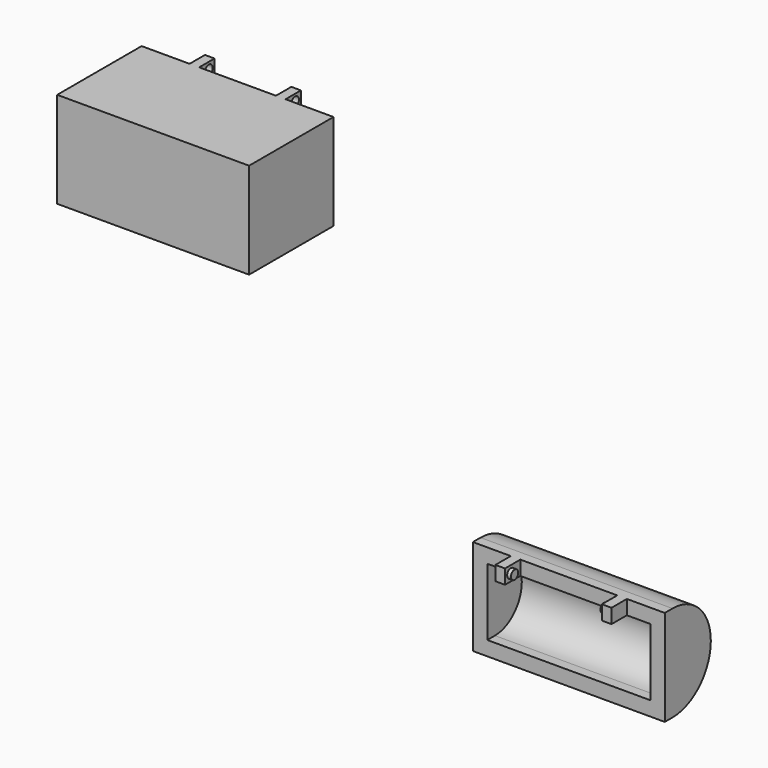
from build123d import *

# Parameters (mm, degrees)
F0_W      = 20
F0_H      = 10
F1_DEPTH  = 1
F2_W      = 20
F2_H      = 10
F2_W_2    = 17
F2_H_2    = 7
F3_DEPTH  = 10
F4_W      = 1
F4_H      = 1.5
F5_DEPTH  = 2
F6_R      = 0.5
F7_DEPTH  = 25
F9_DEPTH  = 20
F12_DEPTH = 17
F13_W     = 1
F13_H     = 1.5
F14_DEPTH = 2
F15_R     = 0.45
F16_DEPTH = 0.4
F17_R     = 0.475
F18_DEPTH = 0.4


with BuildPart() as f1:
    # F0 (on Front) → F1 (new body)
    with BuildSketch(Plane.XZ):
        with Locations((-30.8312657289, 3.0536208428)):
            Rectangle(F0_W, F0_H)
    extrude(amount=-F1_DEPTH)

    # F2 (on face) → F3 (join)
    with BuildSketch(Plane(origin=(0, 1, 0), x_dir=(-1, 0, 0), z_dir=(0, 1, 0))):
        with Locations((30.8312657289, 3.0536208428)):
            Rectangle(F2_W, F2_H)
        with Locations((30.8312657289, 3.0536208428)):
            Rectangle(F2_W_2, F2_H_2, mode=Mode.SUBTRACT)
    extrude(amount=F3_DEPTH)

    # F4 (on face) → F5 (join)
    with BuildSketch(Plane(origin=(0, 11, 0), x_dir=(-1, 0, 0), z_dir=(0, 1, 0))):
        with Locations((26.3312657289, 7.3036208428)):
            Rectangle(F4_W, F4_H)
        with Locations((35.3312657289, 7.3036208428)):
            Rectangle(F4_W, F4_H)
    extrude(amount=F5_DEPTH)

    # F6 (on face) → F7 (cut)
    with BuildSketch(Plane(origin=(-35.8312657289, 0, 0), x_dir=(0, -1, 0), z_dir=(-1, 0, 0))):
        with Locations((-12.25, 7.3036208428)):
            Circle(F6_R)
    extrude(amount=-F7_DEPTH, mode=Mode.SUBTRACT)


with BuildPart() as f9:
    # F8 (on Right) → F9 (new body)
    with BuildSketch(Plane.YZ):
        with BuildLine():
            Line((3.1154813953, -30.9684574604), (4.1154813953, -30.9684574604))
            ThreePointArc((4.1154813953, -30.9684574604), (9.1154813953, -25.9684574604), (4.1154813953, -20.9684574604))
            Line((4.1154813953, -20.9684574604), (3.1154813953, -20.9684574604))
            Line((3.1154813953, -20.9684574604), (3.1154813953, -30.9684574604))
        make_face()
    extrude(amount=F9_DEPTH)

    # F11 (on offset) → F12 (cut)
    with BuildSketch(Plane(origin=(1.5, 0, 0), x_dir=(0, -1, 0), z_dir=(-1, 0, 0))):
        with BuildLine():
            Line((-3.1154813953, -29.4684574604), (-3.1154813953, -22.4684574604))
            Line((-3.1154813953, -22.4684574604), (-4.1154813953, -22.4684574604))
            ThreePointArc((-4.1154813953, -22.4684574604), (-7.6154813953, -25.9684574604), (-4.1154813953, -29.4684574604))
            Line((-4.1154813953, -29.4684574604), (-3.1154813953, -29.4684574604))
        make_face()
    extrude(amount=-F12_DEPTH, mode=Mode.SUBTRACT)

    # F13 (on face) → F14 (join)
    with BuildSketch(Plane.XZ.offset(-3.1154813953)):
        with Locations((4.45, -21.7184574604)):
            Rectangle(F13_W, F13_H)
        with Locations((15.55, -21.7184574604)):
            Rectangle(F13_W, F13_H)
    extrude(amount=F14_DEPTH)

    # F15 (on face) → F16 (join)
    with BuildSketch(Plane(origin=(15.05, 0, 0), x_dir=(0, -1, 0), z_dir=(-1, 0, 0))):
        with Locations((-1.8654813953, -21.7184574604)):
            Circle(F15_R)
    extrude(amount=F16_DEPTH)

    # F17 (on face) → F18 (join)
    with BuildSketch(Plane.YZ.offset(4.95)):
        with Locations((1.8654813953, -21.7184574604)):
            Circle(F17_R)
    extrude(amount=F18_DEPTH)


solid = Compound([f1.part, f9.part])
